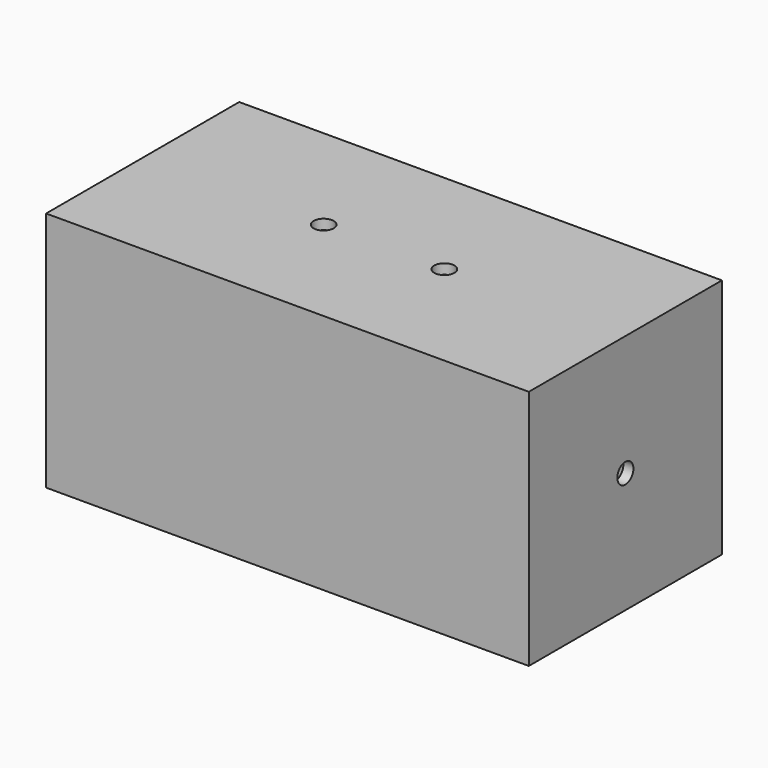
from build123d import *

# Parameters (mm, degrees)
F0_W     = 304.8
F0_H     = 152.4
F1_DEPTH = 76.2
F2_T     = -6.35
F3_R     = 6.35
F4_DEPTH = 434.16217
F5_R     = 6.35
F6_DEPTH = 64.02061


with BuildPart() as f1:
    # F0 (on Front) → F1 (new body, symmetric)
    with BuildSketch(Plane.XZ):
        Rectangle(F0_W, F0_H)
    extrude(amount=F1_DEPTH, both=True)

    # F2
    f2_openings = [f1.faces().sort_by_distance(p)[0] for p in [
        (0, 0, -76.2),
    ]]
    offset(amount=F2_T, openings=f2_openings)

    # F3 (on face) → F4 (cut)
    with BuildSketch(Plane.YZ.offset(152.4)):
        Circle(F3_R)
    extrude(amount=-F4_DEPTH, mode=Mode.SUBTRACT)

    # F5 (on face) → F6 (cut)
    with BuildSketch(Plane.XY.offset(76.2)):
        with Locations((-38.1, 0)):
            Circle(F5_R)
        with Locations((38.1, 0)):
            Circle(F5_R)
    extrude(amount=-F6_DEPTH, mode=Mode.SUBTRACT)


solid = f1.part
